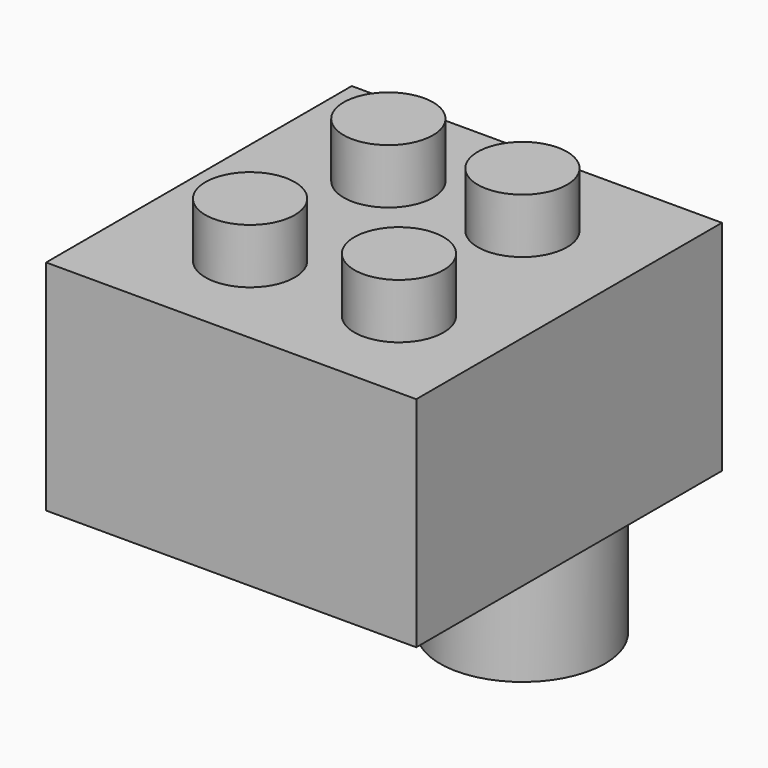
from build123d import *

# Parameters (mm, degrees)
F0_W     = 68.447597
F0_H     = 70.646504
F1_DEPTH = 40.386
F2_R     = 15.24
F3_DEPTH = 65.532
F4_R     = 8.255
F5_DEPTH = 10.16


with BuildPart() as f1:
    # F0 (on Top) → F1 (new body)
    with BuildSketch(Plane.XY):
        with Locations((11.513501, 5.437753)):
            Rectangle(F0_W, F0_H)
    extrude(amount=F1_DEPTH)

    # F2 (on face) → F3 (join)
    with BuildSketch(Plane.XY.offset(40.386)):
        with Locations((24.792334, 20.836459)):
            Circle(F2_R)
    extrude(amount=-F3_DEPTH)

    # F4 (on face) → F5 (join)
    with BuildSketch(Plane.XY.offset(40.386)):
        with Locations((0, 20.836459)):
            Circle(F4_R)
        with Locations((0, -11.11847)):
            Circle(F4_R)
        with Locations((24.792334, 20.836459)):
            Circle(F4_R)
        with Locations((27.5301, -11.11847)):
            Circle(F4_R)
    extrude(amount=F5_DEPTH)


solid = f1.part
